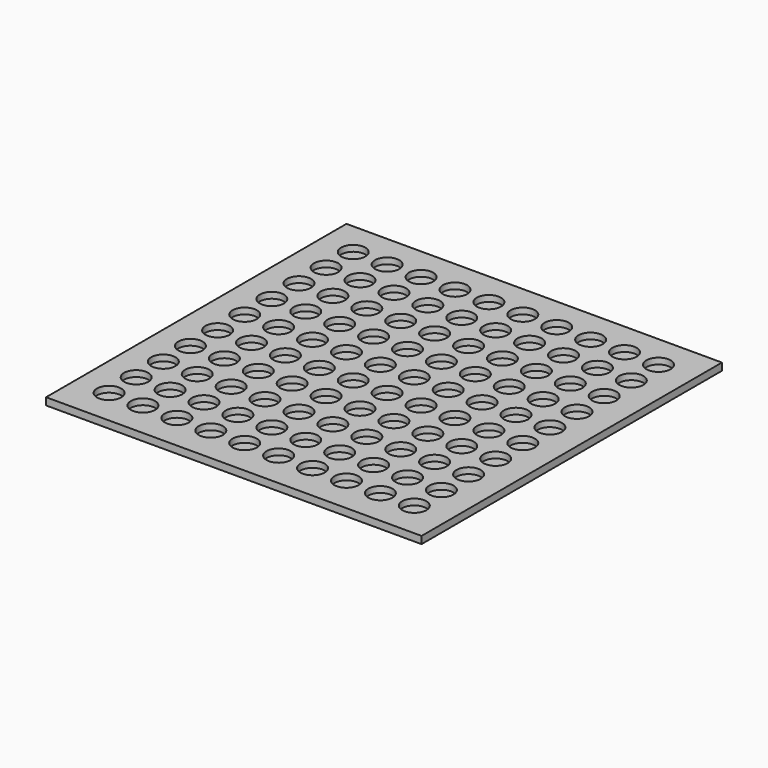
from build123d import *

# Parameters (mm, degrees)
F0_W     = 310
F0_H     = 310
F0_R     = 10
F1_DEPTH = 5
F2_W     = 310
F2_H     = 310
F3_DEPTH = 1


with BuildPart() as f1:
    # F0 (on Top) → F1 (new body)
    with BuildSketch(Plane.XY):
        with Locations((-133.802087, 36.740684)):
            Rectangle(F0_W, F0_H)
        with Locations((-260.802087, -88.259316)):
            Circle(F0_R, mode=Mode.SUBTRACT)
        with Locations((-232.802087, -88.259316)):
            Circle(F0_R, mode=Mode.SUBTRACT)
        with Locations((-260.802087, -60.259316)):
            Circle(F0_R, mode=Mode.SUBTRACT)
        with Locations((-232.802087, -60.259316)):
            Circle(F0_R, mode=Mode.SUBTRACT)
        with Locations((-204.802087, -88.259316)):
            Circle(F0_R, mode=Mode.SUBTRACT)
        with Locations((-176.802087, -88.259316)):
            Circle(F0_R, mode=Mode.SUBTRACT)
        with Locations((-148.802087, -88.259316)):
            Circle(F0_R, mode=Mode.SUBTRACT)
        with Locations((-204.802087, -60.259316)):
            Circle(F0_R, mode=Mode.SUBTRACT)
        with Locations((-176.802087, -60.259316)):
            Circle(F0_R, mode=Mode.SUBTRACT)
        with Locations((-148.802087, -60.259316)):
            Circle(F0_R, mode=Mode.SUBTRACT)
        with Locations((-260.802087, -32.259316)):
            Circle(F0_R, mode=Mode.SUBTRACT)
        with Locations((-260.802087, -4.259316)):
            Circle(F0_R, mode=Mode.SUBTRACT)
        with Locations((-232.802087, -32.259316)):
            Circle(F0_R, mode=Mode.SUBTRACT)
        with Locations((-232.802087, -4.259316)):
            Circle(F0_R, mode=Mode.SUBTRACT)
        with Locations((-260.802087, 23.740684)):
            Circle(F0_R, mode=Mode.SUBTRACT)
        with Locations((-232.802087, 23.740684)):
            Circle(F0_R, mode=Mode.SUBTRACT)
        with Locations((-204.802087, -32.259316)):
            Circle(F0_R, mode=Mode.SUBTRACT)
        with Locations((-176.802087, -32.259316)):
            Circle(F0_R, mode=Mode.SUBTRACT)
        with Locations((-204.802087, -4.259316)):
            Circle(F0_R, mode=Mode.SUBTRACT)
        with Locations((-176.802087, -4.259316)):
            Circle(F0_R, mode=Mode.SUBTRACT)
        with Locations((-148.802087, -32.259316)):
            Circle(F0_R, mode=Mode.SUBTRACT)
        with Locations((-148.802087, -4.259316)):
            Circle(F0_R, mode=Mode.SUBTRACT)
        with Locations((-204.802087, 23.740684)):
            Circle(F0_R, mode=Mode.SUBTRACT)
        with Locations((-176.802087, 23.740684)):
            Circle(F0_R, mode=Mode.SUBTRACT)
        with Locations((-148.802087, 23.740684)):
            Circle(F0_R, mode=Mode.SUBTRACT)
        with Locations((-120.802087, -88.259316)):
            Circle(F0_R, mode=Mode.SUBTRACT)
        with Locations((-92.802087, -88.259316)):
            Circle(F0_R, mode=Mode.SUBTRACT)
        with Locations((-64.802087, -88.259316)):
            Circle(F0_R, mode=Mode.SUBTRACT)
        with Locations((-120.802087, -60.259316)):
            Circle(F0_R, mode=Mode.SUBTRACT)
        with Locations((-92.802087, -60.259316)):
            Circle(F0_R, mode=Mode.SUBTRACT)
        with Locations((-64.802087, -60.259316)):
            Circle(F0_R, mode=Mode.SUBTRACT)
        with Locations((-36.802087, -88.259316)):
            Circle(F0_R, mode=Mode.SUBTRACT)
        with Locations((-8.802087, -88.259316)):
            Circle(F0_R, mode=Mode.SUBTRACT)
        with Locations((-36.802087, -60.259316)):
            Circle(F0_R, mode=Mode.SUBTRACT)
        with Locations((-8.802087, -60.259316)):
            Circle(F0_R, mode=Mode.SUBTRACT)
        with Locations((-120.802087, -32.259316)):
            Circle(F0_R, mode=Mode.SUBTRACT)
        with Locations((-120.802087, -4.259316)):
            Circle(F0_R, mode=Mode.SUBTRACT)
        with Locations((-92.802087, -32.259316)):
            Circle(F0_R, mode=Mode.SUBTRACT)
        with Locations((-64.802087, -32.259316)):
            Circle(F0_R, mode=Mode.SUBTRACT)
        with Locations((-92.802087, -4.259316)):
            Circle(F0_R, mode=Mode.SUBTRACT)
        with Locations((-64.802087, -4.259316)):
            Circle(F0_R, mode=Mode.SUBTRACT)
        with Locations((-120.802087, 23.740684)):
            Circle(F0_R, mode=Mode.SUBTRACT)
        with Locations((-92.802087, 23.740684)):
            Circle(F0_R, mode=Mode.SUBTRACT)
        with Locations((-64.802087, 23.740684)):
            Circle(F0_R, mode=Mode.SUBTRACT)
        with Locations((-36.802087, -32.259316)):
            Circle(F0_R, mode=Mode.SUBTRACT)
        with Locations((-36.802087, -4.259316)):
            Circle(F0_R, mode=Mode.SUBTRACT)
        with Locations((-8.802087, -32.259316)):
            Circle(F0_R, mode=Mode.SUBTRACT)
        with Locations((-8.802087, -4.259316)):
            Circle(F0_R, mode=Mode.SUBTRACT)
        with Locations((-36.802087, 23.740684)):
            Circle(F0_R, mode=Mode.SUBTRACT)
        with Locations((-8.802087, 23.740684)):
            Circle(F0_R, mode=Mode.SUBTRACT)
        with Locations((-260.802087, 51.740684)):
            Circle(F0_R, mode=Mode.SUBTRACT)
        with Locations((-232.802087, 51.740684)):
            Circle(F0_R, mode=Mode.SUBTRACT)
        with Locations((-260.802087, 79.740684)):
            Circle(F0_R, mode=Mode.SUBTRACT)
        with Locations((-260.802087, 107.740684)):
            Circle(F0_R, mode=Mode.SUBTRACT)
        with Locations((-232.802087, 79.740684)):
            Circle(F0_R, mode=Mode.SUBTRACT)
        with Locations((-232.802087, 107.740684)):
            Circle(F0_R, mode=Mode.SUBTRACT)
        with Locations((-204.802087, 51.740684)):
            Circle(F0_R, mode=Mode.SUBTRACT)
        with Locations((-176.802087, 51.740684)):
            Circle(F0_R, mode=Mode.SUBTRACT)
        with Locations((-148.802087, 51.740684)):
            Circle(F0_R, mode=Mode.SUBTRACT)
        with Locations((-204.802087, 79.740684)):
            Circle(F0_R, mode=Mode.SUBTRACT)
        with Locations((-176.802087, 79.740684)):
            Circle(F0_R, mode=Mode.SUBTRACT)
        with Locations((-204.802087, 107.740684)):
            Circle(F0_R, mode=Mode.SUBTRACT)
        with Locations((-176.802087, 107.740684)):
            Circle(F0_R, mode=Mode.SUBTRACT)
        with Locations((-148.802087, 79.740684)):
            Circle(F0_R, mode=Mode.SUBTRACT)
        with Locations((-148.802087, 107.740684)):
            Circle(F0_R, mode=Mode.SUBTRACT)
        with Locations((-260.802087, 135.740684)):
            Circle(F0_R, mode=Mode.SUBTRACT)
        with Locations((-232.802087, 135.740684)):
            Circle(F0_R, mode=Mode.SUBTRACT)
        with Locations((-260.802087, 163.740684)):
            Circle(F0_R, mode=Mode.SUBTRACT)
        with Locations((-232.802087, 163.740684)):
            Circle(F0_R, mode=Mode.SUBTRACT)
        with Locations((-204.802087, 135.740684)):
            Circle(F0_R, mode=Mode.SUBTRACT)
        with Locations((-176.802087, 135.740684)):
            Circle(F0_R, mode=Mode.SUBTRACT)
        with Locations((-148.802087, 135.740684)):
            Circle(F0_R, mode=Mode.SUBTRACT)
        with Locations((-204.802087, 163.740684)):
            Circle(F0_R, mode=Mode.SUBTRACT)
        with Locations((-176.802087, 163.740684)):
            Circle(F0_R, mode=Mode.SUBTRACT)
        with Locations((-148.802087, 163.740684)):
            Circle(F0_R, mode=Mode.SUBTRACT)
        with Locations((-120.802087, 51.740684)):
            Circle(F0_R, mode=Mode.SUBTRACT)
        with Locations((-92.802087, 51.740684)):
            Circle(F0_R, mode=Mode.SUBTRACT)
        with Locations((-64.802087, 51.740684)):
            Circle(F0_R, mode=Mode.SUBTRACT)
        with Locations((-120.802087, 79.740684)):
            Circle(F0_R, mode=Mode.SUBTRACT)
        with Locations((-120.802087, 107.740684)):
            Circle(F0_R, mode=Mode.SUBTRACT)
        with Locations((-92.802087, 79.740684)):
            Circle(F0_R, mode=Mode.SUBTRACT)
        with Locations((-64.802087, 79.740684)):
            Circle(F0_R, mode=Mode.SUBTRACT)
        with Locations((-92.802087, 107.740684)):
            Circle(F0_R, mode=Mode.SUBTRACT)
        with Locations((-64.802087, 107.740684)):
            Circle(F0_R, mode=Mode.SUBTRACT)
        with Locations((-36.802087, 51.740684)):
            Circle(F0_R, mode=Mode.SUBTRACT)
        with Locations((-8.802087, 51.740684)):
            Circle(F0_R, mode=Mode.SUBTRACT)
        with Locations((-36.802087, 79.740684)):
            Circle(F0_R, mode=Mode.SUBTRACT)
        with Locations((-36.802087, 107.740684)):
            Circle(F0_R, mode=Mode.SUBTRACT)
        with Locations((-8.802087, 79.740684)):
            Circle(F0_R, mode=Mode.SUBTRACT)
        with Locations((-8.802087, 107.740684)):
            Circle(F0_R, mode=Mode.SUBTRACT)
        with Locations((-120.802087, 135.740684)):
            Circle(F0_R, mode=Mode.SUBTRACT)
        with Locations((-92.802087, 135.740684)):
            Circle(F0_R, mode=Mode.SUBTRACT)
        with Locations((-64.802087, 135.740684)):
            Circle(F0_R, mode=Mode.SUBTRACT)
        with Locations((-120.802087, 163.740684)):
            Circle(F0_R, mode=Mode.SUBTRACT)
        with Locations((-92.802087, 163.740684)):
            Circle(F0_R, mode=Mode.SUBTRACT)
        with Locations((-64.802087, 163.740684)):
            Circle(F0_R, mode=Mode.SUBTRACT)
        with Locations((-36.802087, 135.740684)):
            Circle(F0_R, mode=Mode.SUBTRACT)
        with Locations((-8.802087, 135.740684)):
            Circle(F0_R, mode=Mode.SUBTRACT)
        with Locations((-36.802087, 163.740684)):
            Circle(F0_R, mode=Mode.SUBTRACT)
        with Locations((-8.802087, 163.740684)):
            Circle(F0_R, mode=Mode.SUBTRACT)
    extrude(amount=F1_DEPTH)

    # F2 (on face) → F3 (join)
    with BuildSketch(Plane(origin=(0, 0, 0), x_dir=(1, 0, 0), z_dir=(0, 0, -1))):
        with Locations((-133.802087, -36.740684)):
            Rectangle(F2_W, F2_H)
    extrude(amount=F3_DEPTH)


solid = f1.part
